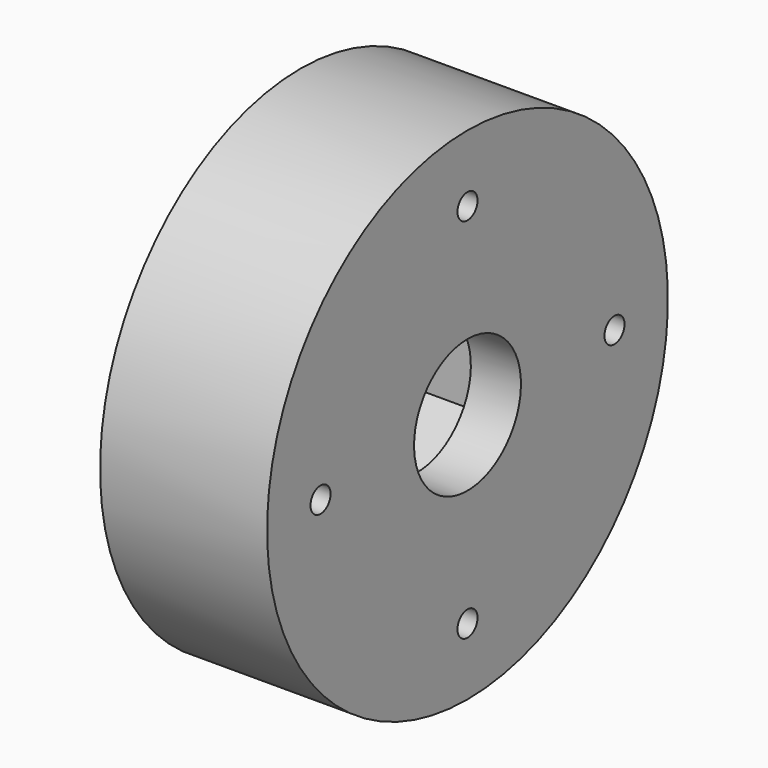
from build123d import *

# Parameters (mm, degrees)
SKETCH017_R             = 15
PAD009_DEPTH            = 10
POCKET003_DEPTH         = 2.5
POLARPATTERN003_COUNT   = 4
SKETCH014_R             = 0.75
HOLE001_DEPTH           = 25
POLARPATTERN002_COUNT   = 4
SKETCH015_R             = 4
POCKET004_DEPTH         = 7.501
POCKET005_DEPTH         = 4.5
BODY010_PLACEMENT_ANGLE = 90


with BuildPart() as part:
    # Sketch017 → Pad009 (new body)
    with BuildSketch(Plane.XY):
        Circle(SKETCH017_R)
    extrude(amount=PAD009_DEPTH)

    # Sketch016 (on Face3 of Pad009) → Pocket003 (cut)
    with BuildSketch(Plane.XY.offset(10)):
        with BuildLine():
            ThreePointArc((-5.26869, 1.578261), (0, -5.5), (5.26869, 1.578261))
            Line((2.107476, 12.131304), (5.26869, 1.578261))
            ThreePointArc((2.107476, 12.131304), (0, 13.7), (-2.107476, 12.131304))
            Line((-2.107476, 12.131304), (-5.26869, 1.578261))
        make_face()
    pocket003 = extrude(amount=-POCKET003_DEPTH, mode=Mode.SUBTRACT)

    # PolarPattern003: Pocket003 ×4 about axis
    polarpattern003_axis = Axis((0, 0, 10), (0, 0, 1))
    for i in range(1, POLARPATTERN003_COUNT):
        add(pocket003.rotate(polarpattern003_axis, i * 360 / POLARPATTERN003_COUNT), mode=Mode.SUBTRACT)

    # Sketch014 (on Face21 of PolarPattern003) → Hole001 (cut)
    with BuildSketch(Plane.XY.offset(7.5)):
        with Locations((0, 11)):
            Circle(SKETCH014_R)
    hole001 = extrude(amount=-HOLE001_DEPTH, mode=Mode.SUBTRACT)

    # PolarPattern002: Hole001 ×4 about axis
    polarpattern002_axis = Axis((0, 0, 7.5), (0, 0, 1))
    for i in range(1, POLARPATTERN002_COUNT):
        add(hole001.rotate(polarpattern002_axis, i * 360 / POLARPATTERN002_COUNT), mode=Mode.SUBTRACT)

    # Sketch015 (on Face25 of PolarPattern002) → Pocket004 (cut, through all)
    with BuildSketch(Plane.XY.offset(7.5)):
        Circle(SKETCH015_R)
    extrude(amount=-POCKET004_DEPTH, mode=Mode.SUBTRACT)

    # Sketch018 (on Face24 of Pocket004) → Pocket005 (cut)
    with BuildSketch(Plane.XY.offset(7.5)):
        Polygon((-2.396004, 4.15), (-4.792007, 0), (-2.396004, -4.15), (2.396004, -4.15), (4.792007, 0), (2.396004, 4.15), align=None)
    extrude(amount=-POCKET005_DEPTH, mode=Mode.SUBTRACT)


with BuildPart() as part_1:
    # Body010 placement: moved
    add(part.part.moved(Location((-25, 0, 0))).rotate(Axis((-25, 0, 0), (0, -1, 0)), BODY010_PLACEMENT_ANGLE))


solid = part_1.part
